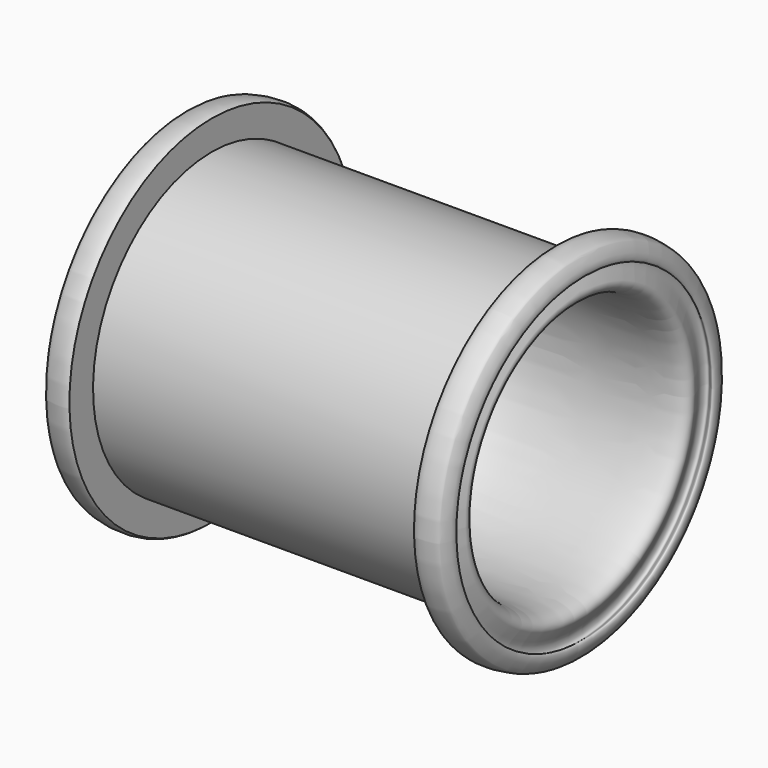
from build123d import *

# Parameters (mm, degrees)
F2_R     = 10
F2_R_2   = 35
F3_DEPTH = 214.8961507823


with BuildPart() as f1:
    # F0 (on Front) → F1 (revolve)
    with BuildSketch(Plane.XZ):
        with BuildLine():
            Line((-10, 0), (0, 0))
            Line((0, 0), (10, 0))
            Line((10, 0), (10, 109.06))
            add(Edge.make_bspline(
                [(175, 180.6804227829), (178.8110334118, 184.2639132096), (198.7546333573, 181.7511039409), (201.0210200965, 177.5292684862), (205.903617911, 169.1479362525), (203.8326231844, 159.1422536451), (195.0883229379, 170.8932955844), (191.6020388109, 157.8330338528), (202.8921589112, 144.4348619876), (190.9464425684, 128.4226041387), (119.8984207368, 131.9959488581), (26.8051008207, 133.007622068), (13.3348718957, 118.760980015), (10, 109.06)],
                knots=[0, 0, 0, 0, 0.0968684203, 0.1432675569, 0.2072443677, 0.2568369049, 0.3154759855, 0.3723653703, 0.4548904324, 0.5269713009, 0.6995398859, 0.8972881155, 1, 1, 1, 1], degree=3))
            Line((175, 180.6804227829), (175, 150.6804227829))
            Line((175, 150.6804227829), (0, 150.6804227829))
            Line((0, 150.6804227829), (-175, 150.6804227829))
            Line((-175, 150.6804227829), (-175, 180.6804227829))
            add(Edge.make_bspline(
                [(-175, 180.6804227829), (-178.8110334118, 184.2639132096), (-198.7546333573, 181.7511039409), (-201.0210200965, 177.5292684862), (-205.903617911, 169.1479362525), (-203.8326231844, 159.1422536451), (-195.0883229379, 170.8932955844), (-191.6020388109, 157.8330338528), (-202.8921589112, 144.4348619876), (-190.9464425684, 128.4226041387), (-119.8984207368, 131.9959488581), (-26.8051008207, 133.007622068), (-13.3348718957, 118.760980015), (-10, 109.06)],
                knots=[0, 0, 0, 0, 0.0968684203, 0.1432675569, 0.2072443677, 0.2568369049, 0.3154759855, 0.3723653703, 0.4548904324, 0.5269713009, 0.6995398859, 0.8972881155, 1, 1, 1, 1], degree=3))
            Line((-10, 109.06), (-10, 0))
        make_face()
    revolve(axis=Axis((36.9060486555, 0, 0), (1, 0, 0)))

    # F2 (on face) → F3 (cut, through all)
    with BuildSketch(Plane(origin=(-10, 0, 0), x_dir=(0, -1, 0), z_dir=(-1, 0, 0))):
        with Locations((-17.127104412, 57.5035850574)):
            Circle(F2_R)
        with Locations((41.2360132624, 43.5843000428)):
            Circle(F2_R)
        with Locations((58.3631176744, -13.9192850146)):
            Circle(F2_R)
        with Locations((17.127104412, -57.5035850574)):
            Circle(F2_R)
        with Locations((-41.2360132624, -43.5843000428)):
            Circle(F2_R)
        with Locations((-58.3631176744, 13.9192850146)):
            Circle(F2_R)
        Circle(F2_R_2)
    extrude(amount=-F3_DEPTH, mode=Mode.SUBTRACT)


solid = f1.part
